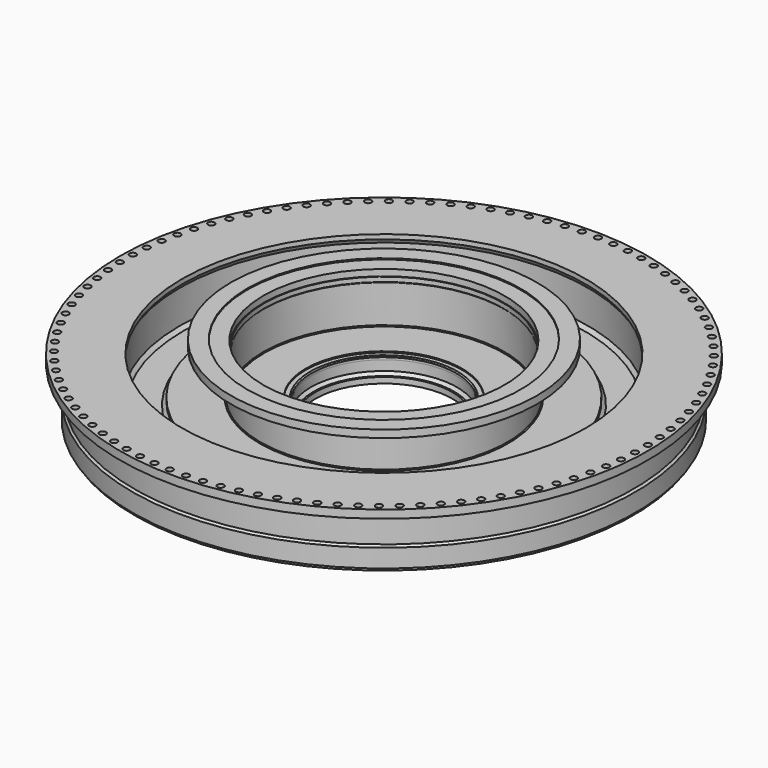
from build123d import *

# Parameters (mm, degrees)
F2_R     = 36.115625
F3_DEPTH = 88.9


with BuildPart() as f1:
    # F0 (on Front) → F1 (revolve)
    with BuildSketch(Plane.XZ):
        Polygon((-1498.6, 296.465625), (-1031.08125, 176.2125), (-1031.08125, 212.274315), (-1489.899933, 330.289647), align=None)
        Polygon((-852.4875, 261.9375), (-751.284375, 261.9375), (-751.284375, 325.4375), (-769.9375, 325.4375), (-801.6875, 357.1875), (-801.6875, 468.3125), (-795.3375, 468.3125), (-795.3375, 493.7125), (-808.0375, 506.4125), (-857.25, 506.4125), (-857.25, 519.1125), (-1315.045312, 519.1125), (-1323.975, 528.042187), (-1323.975, 940.395313), (-1315.045313, 949.325), (-1315.045313, 1000.125), (-1323.975, 1000.125), (-1323.975, 1069.975), (-1500.1875, 1069.975), (-1500.1875, 1082.675), (-1679.575, 1082.675), (-1679.575, 1000.125), (-1393.825, 1000.125), (-1355.725, 962.025), (-1355.725, 528.042187), (-1364.654688, 519.1125), (-1863.725, 519.1125), (-1863.725, 481.80625), (-1901.825, 443.70625), (-2201.8625, 443.70625), (-2239.9625, 481.80625), (-2239.9625, 848.180909), (-2214.5625, 892.175), (-2214.5625, 942.975), (-2894.80625, 942.975), (-2894.80625, 854.075), (-2763.440625, 854.075), (-2763.440625, 822.325), (-2738.4375, 797.321875), (-2738.4375, 525.4625), (-2759.86875, 504.03125), (-2759.86875, 304.00625), (-2738.4375, 304.00625), (-2738.4375, 272.25625), (-2713.0375, 272.25625), (-2713.0375, 338.93125), (-2700.3375, 338.93125), (-2700.3375, 354.80625), (-2662.2375, 392.90625), (-1901.825, 392.90625), (-1863.725, 354.80625), (-1793.875, 354.80625), (-1769.358397, 330.289647), (-1739.9, 330.289647), (-1739.9, 455.6125), (-1698.625, 455.6125), (-1698.625, 481.0125), (-890.5875, 481.0125), (-852.4875, 442.9125), align=None)
        Polygon((-2700.3375, 481.80625), (-2700.3375, 854.075), (-2662.2375, 892.175), (-2309.8125, 892.175), (-2271.7125, 854.075), (-2271.7125, 481.80625), (-2309.8125, 443.70625), (-2662.2375, 443.70625), align=None, mode=Mode.SUBTRACT)
    revolve(axis=Axis((0, 0, 541.3375), (0, 0, 1)))

    # F2 (on face) → F3 (cut, through all)
    with BuildSketch(Plane.XY.offset(942.975)):
        with Locations((-88.758952, -2824.355663)):
            Circle(F2_R)
        with Locations((88.758952, -2824.355663)):
            Circle(F2_R)
        with Locations((265.926566, -2813.209221)):
            Circle(F2_R)
        with Locations((442.04469, -2790.960328)):
            Circle(F2_R)
        with Locations((616.418264, -2757.69679)):
            Circle(F2_R)
        with Locations((788.359118, -2713.549882)):
            Circle(F2_R)
        with Locations((957.188678, -2658.693833)):
            Circle(F2_R)
        with Locations((1122.240652, -2593.345134)):
            Circle(F2_R)
        with Locations((1282.863655, -2517.761686)):
            Circle(F2_R)
        with Locations((1438.423781, -2432.241783)):
            Circle(F2_R)
        with Locations((1588.307105, -2337.122933)):
            Circle(F2_R)
        with Locations((1731.922107, -2232.780526)):
            Circle(F2_R)
        with Locations((1868.702003, -2119.626355)):
            Circle(F2_R)
        with Locations((1998.106987, -1998.106987)):
            Circle(F2_R)
        with Locations((2119.626355, -1868.702003)):
            Circle(F2_R)
        with Locations((2232.780526, -1731.922107)):
            Circle(F2_R)
        with Locations((2337.122933, -1588.307105)):
            Circle(F2_R)
        with Locations((2432.241783, -1438.423781)):
            Circle(F2_R)
        with Locations((2517.761686, -1282.863655)):
            Circle(F2_R)
        with Locations((2593.345134, -1122.240652)):
            Circle(F2_R)
        with Locations((2658.693833, -957.188678)):
            Circle(F2_R)
        with Locations((2713.549882, -788.359118)):
            Circle(F2_R)
        with Locations((2757.69679, -616.418264)):
            Circle(F2_R)
        with Locations((2790.960328, -442.04469)):
            Circle(F2_R)
        with Locations((2813.209221, -265.926566)):
            Circle(F2_R)
        with Locations((2824.355663, -88.758952)):
            Circle(F2_R)
        with Locations((2824.355663, 88.758952)):
            Circle(F2_R)
        with Locations((2813.209221, 265.926566)):
            Circle(F2_R)
        with Locations((2790.960328, 442.04469)):
            Circle(F2_R)
        with Locations((2757.69679, 616.418264)):
            Circle(F2_R)
        with Locations((2713.549882, 788.359118)):
            Circle(F2_R)
        with Locations((2658.693833, 957.188678)):
            Circle(F2_R)
        with Locations((2593.345134, 1122.240652)):
            Circle(F2_R)
        with Locations((2517.761686, 1282.863655)):
            Circle(F2_R)
        with Locations((2432.241783, 1438.423781)):
            Circle(F2_R)
        with Locations((2337.122933, 1588.307105)):
            Circle(F2_R)
        with Locations((2232.780526, 1731.922107)):
            Circle(F2_R)
        with Locations((2119.626355, 1868.702003)):
            Circle(F2_R)
        with Locations((1998.106987, 1998.106987)):
            Circle(F2_R)
        with Locations((1868.702003, 2119.626355)):
            Circle(F2_R)
        with Locations((1731.922107, 2232.780526)):
            Circle(F2_R)
        with Locations((1588.307105, 2337.122933)):
            Circle(F2_R)
        with Locations((1438.423781, 2432.241783)):
            Circle(F2_R)
        with Locations((1282.863655, 2517.761686)):
            Circle(F2_R)
        with Locations((1122.240652, 2593.345134)):
            Circle(F2_R)
        with Locations((957.188678, 2658.693833)):
            Circle(F2_R)
        with Locations((788.359118, 2713.549882)):
            Circle(F2_R)
        with Locations((616.418264, 2757.69679)):
            Circle(F2_R)
        with Locations((442.04469, 2790.960328)):
            Circle(F2_R)
        with Locations((265.926566, 2813.209221)):
            Circle(F2_R)
        with Locations((88.758952, 2824.355663)):
            Circle(F2_R)
        with Locations((-88.758952, 2824.355663)):
            Circle(F2_R)
        with Locations((-265.926566, 2813.209221)):
            Circle(F2_R)
        with Locations((-442.04469, 2790.960328)):
            Circle(F2_R)
        with Locations((-616.418264, 2757.69679)):
            Circle(F2_R)
        with Locations((-788.359118, 2713.549882)):
            Circle(F2_R)
        with Locations((-957.188678, 2658.693833)):
            Circle(F2_R)
        with Locations((-1122.240652, 2593.345134)):
            Circle(F2_R)
        with Locations((-1282.863655, 2517.761686)):
            Circle(F2_R)
        with Locations((-1438.423781, 2432.241783)):
            Circle(F2_R)
        with Locations((-1588.307105, 2337.122933)):
            Circle(F2_R)
        with Locations((-1731.922107, 2232.780526)):
            Circle(F2_R)
        with Locations((-1868.702003, 2119.626355)):
            Circle(F2_R)
        with Locations((-1998.106987, 1998.106987)):
            Circle(F2_R)
        with Locations((-2119.626355, 1868.702003)):
            Circle(F2_R)
        with Locations((-2232.780526, 1731.922107)):
            Circle(F2_R)
        with Locations((-2337.122933, 1588.307105)):
            Circle(F2_R)
        with Locations((-2432.241783, 1438.423781)):
            Circle(F2_R)
        with Locations((-2517.761686, 1282.863655)):
            Circle(F2_R)
        with Locations((-2593.345134, 1122.240652)):
            Circle(F2_R)
        with Locations((-2658.693833, 957.188678)):
            Circle(F2_R)
        with Locations((-2713.549882, 788.359118)):
            Circle(F2_R)
        with Locations((-2757.69679, 616.418264)):
            Circle(F2_R)
        with Locations((-2790.960328, 442.04469)):
            Circle(F2_R)
        with Locations((-2813.209221, 265.926566)):
            Circle(F2_R)
        with Locations((-2824.355663, 88.758952)):
            Circle(F2_R)
        with Locations((-2824.355663, -88.758952)):
            Circle(F2_R)
        with Locations((-2813.209221, -265.926566)):
            Circle(F2_R)
        with Locations((-2790.960328, -442.04469)):
            Circle(F2_R)
        with Locations((-2757.69679, -616.418264)):
            Circle(F2_R)
        with Locations((-2713.549882, -788.359118)):
            Circle(F2_R)
        with Locations((-2658.693833, -957.188678)):
            Circle(F2_R)
        with Locations((-2593.345134, -1122.240652)):
            Circle(F2_R)
        with Locations((-2517.761686, -1282.863655)):
            Circle(F2_R)
        with Locations((-2432.241783, -1438.423781)):
            Circle(F2_R)
        with Locations((-2337.122933, -1588.307105)):
            Circle(F2_R)
        with Locations((-2232.780526, -1731.922107)):
            Circle(F2_R)
        with Locations((-2119.626355, -1868.702003)):
            Circle(F2_R)
        with Locations((-1998.106987, -1998.106987)):
            Circle(F2_R)
        with Locations((-1868.702003, -2119.626355)):
            Circle(F2_R)
        with Locations((-1731.922107, -2232.780526)):
            Circle(F2_R)
        with Locations((-1588.307105, -2337.122933)):
            Circle(F2_R)
        with Locations((-1438.423781, -2432.241783)):
            Circle(F2_R)
        with Locations((-1282.863655, -2517.761686)):
            Circle(F2_R)
        with Locations((-1122.240652, -2593.345134)):
            Circle(F2_R)
        with Locations((-957.188678, -2658.693833)):
            Circle(F2_R)
        with Locations((-788.359118, -2713.549882)):
            Circle(F2_R)
        with Locations((-616.418264, -2757.69679)):
            Circle(F2_R)
        with Locations((-442.04469, -2790.960328)):
            Circle(F2_R)
        with Locations((-265.926566, -2813.209221)):
            Circle(F2_R)
    extrude(amount=-F3_DEPTH, mode=Mode.SUBTRACT)


solid = f1.part
